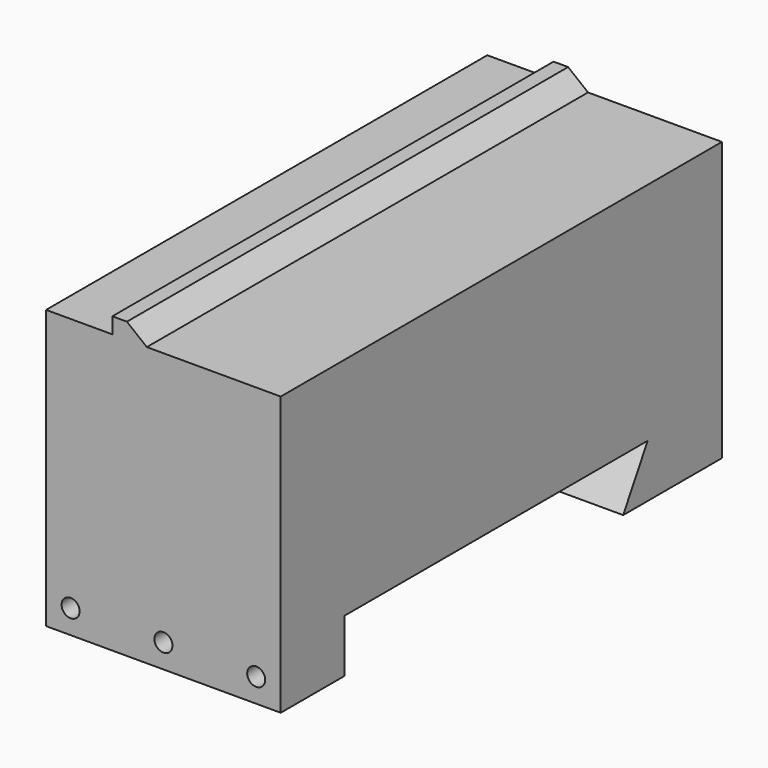
from build123d import *

# Parameters (mm, degrees)
F1_DEPTH = 88.5
F2_R     = 3.4
F3_DEPTH = 30
F5_DEPTH = 208


with BuildPart() as f1:
    # F0 (on Right) → F1 (new body)
    with BuildSketch(Plane.YZ):
        Polygon((-74.5, 0), (68.5, 0), (56.952995, -20), (103.5, -20), (103.5, 85), (-104.5, 85), (-104.5, -20), (-74.5, -20), align=None)
    extrude(amount=F1_DEPTH)

    # F2 (on face) → F3 (cut, through all)
    with BuildSketch(Plane.XZ.offset(104.5)):
        with Locations((9.25, -11)):
            Circle(F2_R)
        with Locations((44.25, -11)):
            Circle(F2_R)
        with Locations((79.25, -11)):
            Circle(F2_R)
    extrude(amount=-F3_DEPTH, mode=Mode.SUBTRACT)

    # F4 (on face) → F5 (join, through all)
    with BuildSketch(Plane.XZ.offset(104.5)):
        Polygon((25, 91), (25, 85), (38, 85), (30.5, 91), align=None)
    extrude(amount=-F5_DEPTH)


solid = f1.part
